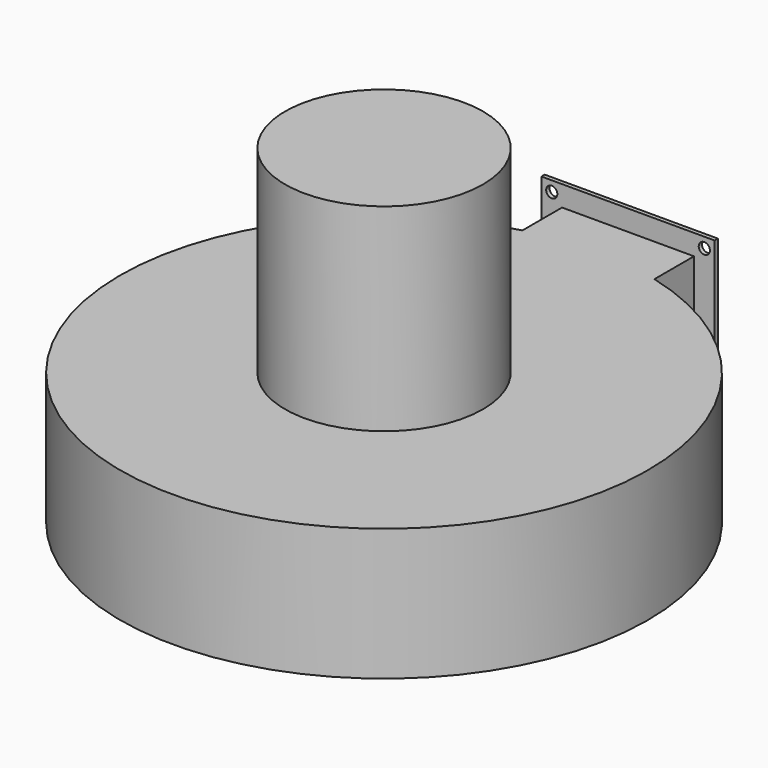
from build123d import *

# Parameters (mm, degrees)
F1_DEPTH = 50.8
F2_R     = 38.1
F3_DEPTH = 76.2
F4_R     = 50.8
F5_DEPTH = 44.45
F6_T     = -1.5875
F7_W     = 66.675
F7_H     = 66.675
F7_R     = 2.15265
F7_W_2   = 47.625
F7_H_2   = 47.625
F8_DEPTH = 1.5875


with BuildPart() as f1:
    # F0 (on Top) → F1 (new body)
    with BuildSketch(Plane.XY):
        with BuildLine():
            Line((50.8, 0), (0, 0))
            Line((0, 0), (0, -19.05))
            ThreePointArc((0, -19.05), (25.4, -219.0237769937), (50.8, -19.05))
            Line((50.8, -19.05), (50.8, 0))
        make_face()
    extrude(amount=F1_DEPTH)

    # F2 (on face) → F3 (join)
    with BuildSketch(Plane.XY.offset(50.8)):
        with Locations((25.4, -117.4237769937)):
            Circle(F2_R)
    extrude(amount=F3_DEPTH)

    # F4 (on face) → F5 (cut)
    with BuildSketch(Plane(origin=(0, 0, 0), x_dir=(1, 0, 0), z_dir=(0, 0, -1))):
        with Locations((25.4, 117.4237769937)):
            Circle(F4_R)
    extrude(amount=-F5_DEPTH, mode=Mode.SUBTRACT)

    # F6
    f6_openings = [f1.faces().sort_by_distance(p)[0] for p in [
        (25.4, 0, 25.4),
    ]]
    offset(amount=F6_T, openings=f6_openings, kind=Kind.INTERSECTION)

    # F7 (on face) → F8 (join)
    with BuildSketch(Plane(origin=(0, 0, 0), x_dir=(-1, 0, 0), z_dir=(0, 1, 0))):
        with Locations((-25.4, 25.4)):
            Rectangle(F7_W, F7_H)
        with Locations((-54.76875, -3.96875)):
            Circle(F7_R, mode=Mode.SUBTRACT)
        with Locations((3.96875, -3.96875)):
            Circle(F7_R, mode=Mode.SUBTRACT)
        with Locations((-54.76875, 54.76875)):
            Circle(F7_R, mode=Mode.SUBTRACT)
        with Locations((-25.4, 25.4)):
            Rectangle(F7_W_2, F7_H_2, mode=Mode.SUBTRACT)
        with Locations((3.96875, 54.76875)):
            Circle(F7_R, mode=Mode.SUBTRACT)
    extrude(amount=F8_DEPTH)


solid = f1.part
